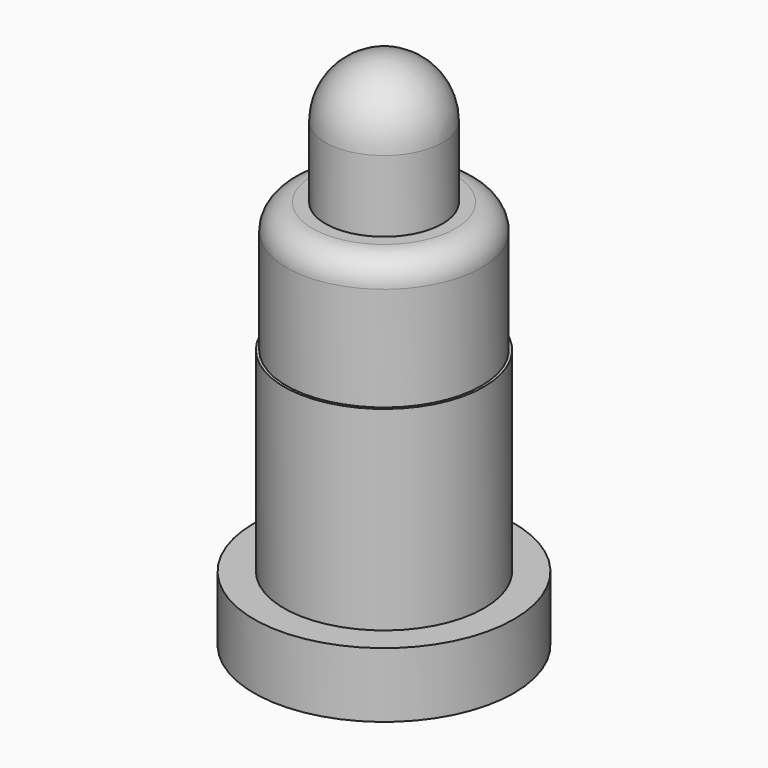
from build123d import *

# Parameters (mm, degrees)
SKETCH_R     = 1
PAD_DEPTH    = 0.5
SKETCH002_R  = 0.77
PAD001_DEPTH = 1.5
SKETCH003_R  = 0.75
PAD002_DEPTH = 1
FILLET_R     = 0.2
SKETCH004_R  = 0.45
PAD003_DEPTH = 1
FILLET001_R  = 0.45


with BuildPart() as part:
    # Sketch → Pad (new body)
    with BuildSketch(Plane.XY):
        Circle(SKETCH_R)
    extrude(amount=PAD_DEPTH)

    # Sketch002 (on Face3 of Pad) → Pad001 (join)
    with BuildSketch(Plane.XY.offset(0.5)):
        Circle(SKETCH002_R)
    extrude(amount=PAD001_DEPTH)

    # Sketch003 (on Face5 of Pad001) → Pad002 (join)
    with BuildSketch(Plane.XY.offset(2)):
        Circle(SKETCH003_R)
    extrude(amount=PAD002_DEPTH)

    # Fillet
    fillet_edges = [part.edges().sort_by_distance(p)[0] for p in [
        (-0.75, 0, 3),
    ]]
    fillet(fillet_edges, radius=FILLET_R)

    # Sketch004 (on Face4 of Fillet) → Pad003 (join)
    with BuildSketch(Plane.XY.offset(3)):
        Circle(SKETCH004_R)
    extrude(amount=PAD003_DEPTH)

    # Fillet001
    fillet001_edges = [part.edges().sort_by_distance(p)[0] for p in [
        (-0.45, 0, 4),
    ]]
    fillet(fillet001_edges, radius=FILLET001_R)


solid = part.part
